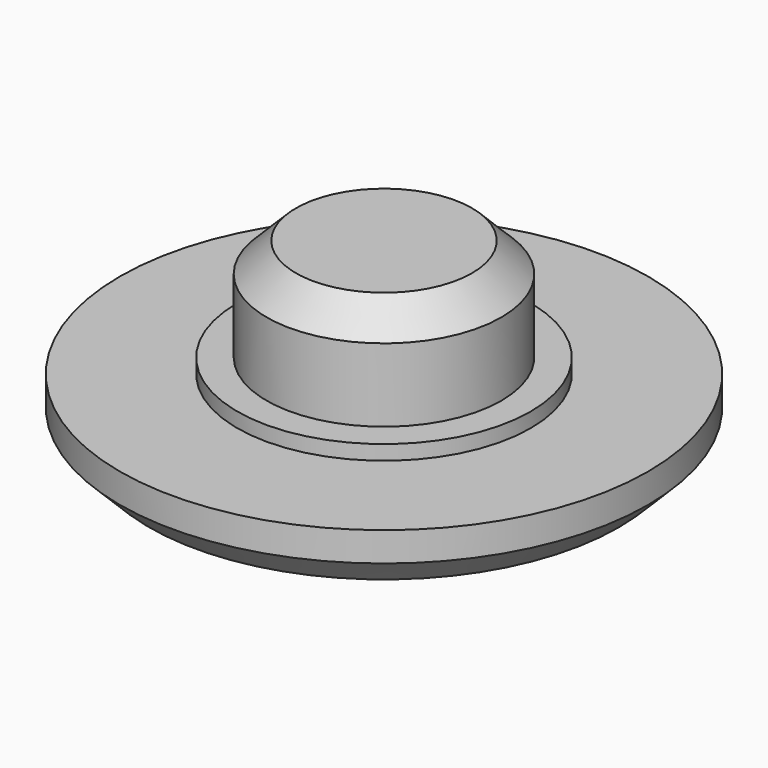
from build123d import *

# Parameters (mm, degrees)
F0_R      = 9
F0_R_2    = 5
F1_DEPTH  = 2
F0_R_3    = 4
F2_DEPTH  = 2.5
F3_R      = 4
F4_DEPTH  = 3.5
F5_DEPTH  = 2.5
F6_SIZE   = 1
F7_SIZE   = 1
F7_2_SIZE = 1
F7_3_SIZE = 1


with BuildPart() as f1:
    # F0 (on Top) → F1 (new body)
    with BuildSketch(Plane.XY):
        Circle(F0_R)
        Circle(F0_R_2, mode=Mode.SUBTRACT)
    extrude(amount=F1_DEPTH)

    # F0 (on Top) → F2 (join)
    with BuildSketch(Plane.XY):
        Circle(F0_R_2)
        Circle(F0_R_3, mode=Mode.SUBTRACT)
    extrude(amount=F2_DEPTH)

    # F6
    f6_edges = [f1.edges().sort_by_distance(p)[0] for p in [
        (-4, 0, 0),
    ]]
    chamfer(f6_edges, length=F6_SIZE)

    # F7#2
    f7_2_edges = [f1.edges().sort_by_distance(p)[0] for p in [
        (-9, 0, 0),
    ]]
    chamfer(f7_2_edges, length=F7_2_SIZE)


with BuildPart() as f4:
    # F3 (on face) → F4 (new body)
    with BuildSketch(Plane.XY.offset(2.5)):
        Circle(F3_R)
    extrude(amount=F4_DEPTH)

    # F7#3
    f7_3_edges = [f4.edges().sort_by_distance(p)[0] for p in [
        (-4, 0, 6),
    ]]
    chamfer(f7_3_edges, length=F7_3_SIZE)


with BuildPart() as f5:
    # F3 (on face) → F5 (new body)
    with BuildSketch(Plane.XY.offset(2.5)):
        Circle(F3_R)
    extrude(amount=-F5_DEPTH)

    # F7
    f7_edges = [f5.edges().sort_by_distance(p)[0] for p in [
        (-4, 0, 0),
    ]]
    chamfer(f7_edges, length=F7_SIZE)


solid = Compound([f1.part, f4.part, f5.part])
